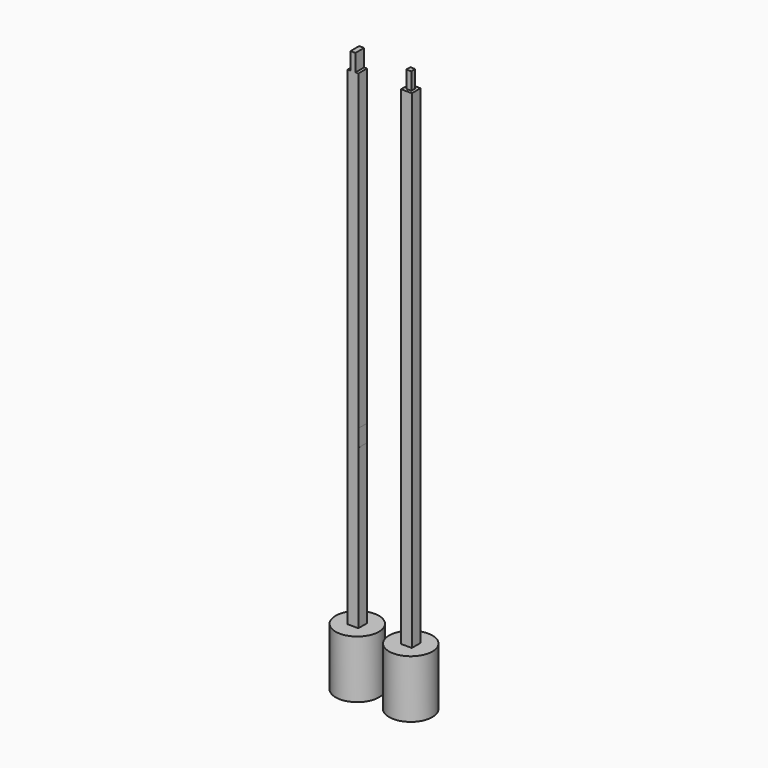
from build123d import *

# Parameters (mm, degrees)
F0_R      = 304.8
F1_DEPTH  = 7924.8
F2_R      = 304.8
F2_W      = 152.4
F2_H      = 152.4
F3_DEPTH  = 7111.8984
F4_W      = 41.275
F4_H      = 152.4
F5_DEPTH  = 241.3
F6_R      = 304.8
F6_W      = 152.4
F6_H      = 152.4
F7_DEPTH  = 7111.8984
F8_W      = 41.275
F8_H      = 41.148
F8_W_2    = 69.977
F8_H_2    = 70.104
F8_W_3    = 41.148
F9_DEPTH  = 241.3
F11_W     = 152.4
F11_H     = 241.3
F12_DEPTH = 0.3048
F10_W     = 152.4
F10_H     = 241.3
F13_DEPTH = 0.3048


with BuildPart() as f1:
    # F0 (on Top) → F1 (new body)
    with BuildSketch(Plane.XY):
        Circle(F0_R)
    extrude(amount=F1_DEPTH)

    # F2 (on face) → F3 (cut)
    with BuildSketch(Plane.XY.offset(7924.8)):
        Circle(F2_R)
        Rectangle(F2_W, F2_H, mode=Mode.SUBTRACT)
    extrude(amount=-F3_DEPTH, mode=Mode.SUBTRACT)

    # F4 (on face) → F5 (cut)
    with BuildSketch(Plane.XY.offset(7924.8)):
        with Locations((-55.5625, 0)):
            Rectangle(F4_W, F4_H)
        with Locations((55.5625, 0)):
            Rectangle(F4_W, F4_H)
    extrude(amount=-F5_DEPTH, mode=Mode.SUBTRACT)

    # F11 (on face) → F12 (cut)
    with BuildSketch(Plane(origin=(-76.2, 0, 0), x_dir=(0, -1, 0), z_dir=(-1, 0, 0))):
        with Locations((0, 3168.65)):
            Rectangle(F11_W, F11_H)
    extrude(amount=-F12_DEPTH, mode=Mode.SUBTRACT)

    # F10 (on face) → F13 (cut)
    with BuildSketch(Plane.YZ.offset(76.2)):
        with Locations((0, 3168.65)):
            Rectangle(F10_W, F10_H)
    extrude(amount=-F13_DEPTH, mode=Mode.SUBTRACT)


with BuildPart() as f1b:
    # F0 (on Top) → F1, piece 2 (new body)
    with BuildSketch(Plane.XY):
        with Locations((752.1598935127, 0)):
            Circle(F0_R)
    extrude(amount=F1_DEPTH)

    # F6 (on face) → F7 (cut)
    with BuildSketch(Plane.XY.offset(7924.8)):
        with Locations((752.1598935127, 0)):
            Circle(F6_R)
        with Locations((752.1598935127, 0)):
            Rectangle(F6_W, F6_H, mode=Mode.SUBTRACT)
    extrude(amount=-F7_DEPTH, mode=Mode.SUBTRACT)

    # F8 (on face) → F9 (cut)
    with BuildSketch(Plane.XY.offset(7924.8)):
        with Locations((696.5973935127, 55.626)):
            Rectangle(F8_W, F8_H)
        with Locations((696.5973935127, -55.626)):
            Rectangle(F8_W, F8_H)
        with Locations((752.2233935127, -55.626)):
            Rectangle(F8_W_2, F8_H)
        with Locations((696.5973935127, 0)):
            Rectangle(F8_W, F8_H_2)
        with Locations((752.2233935127, 55.626)):
            Rectangle(F8_W_2, F8_H)
        with Locations((807.7858935127, 55.626)):
            Rectangle(F8_W_3, F8_H)
        with Locations((807.7858935127, 0)):
            Rectangle(F8_W_3, F8_H_2)
        with Locations((807.7858935127, -55.626)):
            Rectangle(F8_W_3, F8_H)
    extrude(amount=-F9_DEPTH, mode=Mode.SUBTRACT)


solid = Compound([f1.part, f1b.part])
